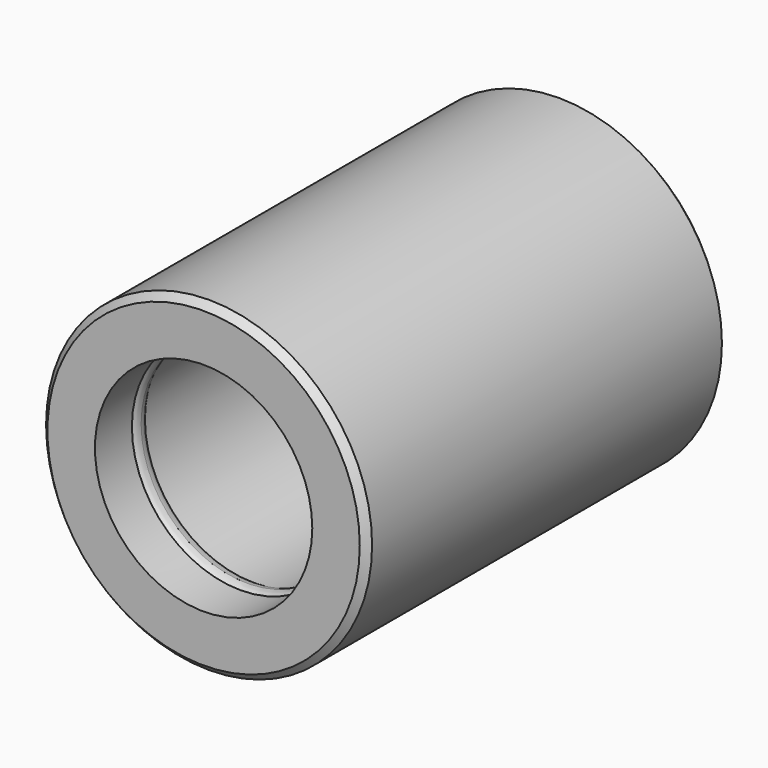
from build123d import *

# Parameters (mm, degrees)
F0_R     = 38.1
F0_R_2   = 25.4
F1_DEPTH = 105.41
F2_R     = 3.175
F4_SIZE  = 1.6002


with BuildPart() as f1:
    # F0 (on Front) → F1 (new body)
    with BuildSketch(Plane.XZ):
        Circle(F0_R)
        Circle(F0_R_2, mode=Mode.SUBTRACT)
    extrude(amount=F1_DEPTH)

    # F2 (on Top) → F3 (revolve)
    with BuildSketch(Plane.XY):
        with Locations((-27.94, -92.71)):
            Circle(F2_R)
        with Locations((-27.94, -12.7)):
            Circle(F2_R)
    revolve(axis=Axis((0, -105.41, 0), (0, -1, 0)))

    # F4
    f4_edges = [f1.edges().sort_by_distance(p)[0] for p in [
        (-38.1, -105.41, 0),
        (-38.1, 0, 0),
    ]]
    chamfer(f4_edges, length=F4_SIZE)


solid = f1.part
